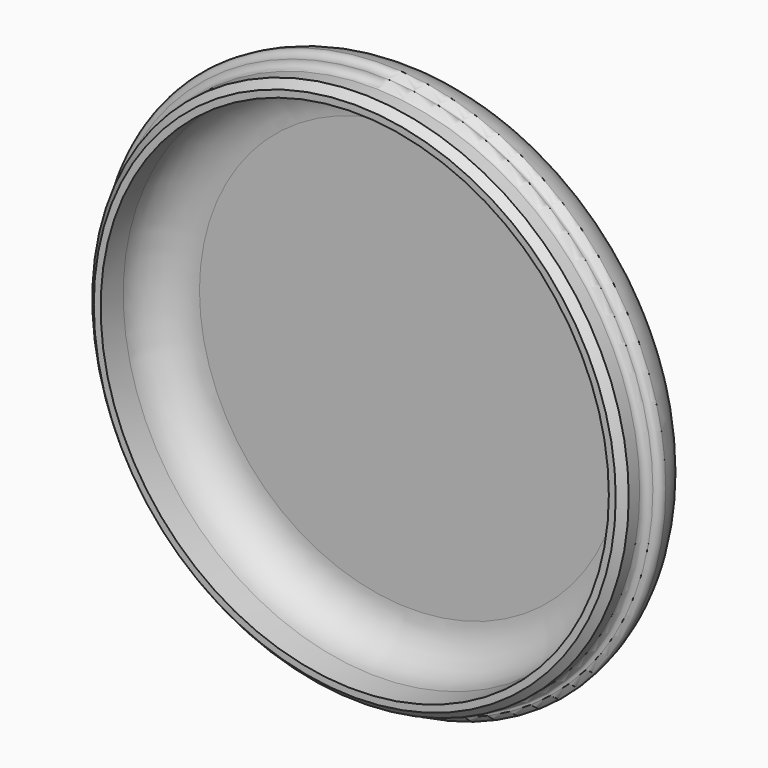
from build123d import *

# Parameters (mm, degrees)
F2_SIZE = 0.8128


with BuildPart() as f1:
    # F0 (on Top) → F1 (revolve)
    with BuildSketch(Plane.XY):
        with BuildLine():
            Line((25.4, 19.05), (0, 19.05))
            Line((0, 19.05), (0, 17.4625))
            Line((0, 17.4625), (23.8125, 17.4625))
            ThreePointArc((23.8125, 17.4625), (27.180096, 16.067596), (28.575, 12.7))
            Line((28.575, 12.7), (28.575, 9.525))
            Line((28.575, 9.525), (30.1625, 9.525))
            Line((30.1625, 9.525), (30.1625, 11.8745))
            ThreePointArc((30.1625, 11.8745), (30.404283, 12.458217), (30.988, 12.7))
            Line((30.988, 12.7), (30.862477, 12.7))
            ThreePointArc((30.862477, 12.7), (31.488286, 12.987158), (31.678709, 13.648851))
            ThreePointArc((31.678709, 13.648851), (29.541093, 17.513923), (25.4, 19.05))
        make_face()
    revolve(axis=Axis((0, 18.25625, 0), (0, 1, 0)))

    # F2
    f2_edges = [f1.edges().sort_by_distance(p)[0] for p in [
        (-30.1625, 9.525, 0),
    ]]
    chamfer(f2_edges, length=F2_SIZE)


solid = f1.part
